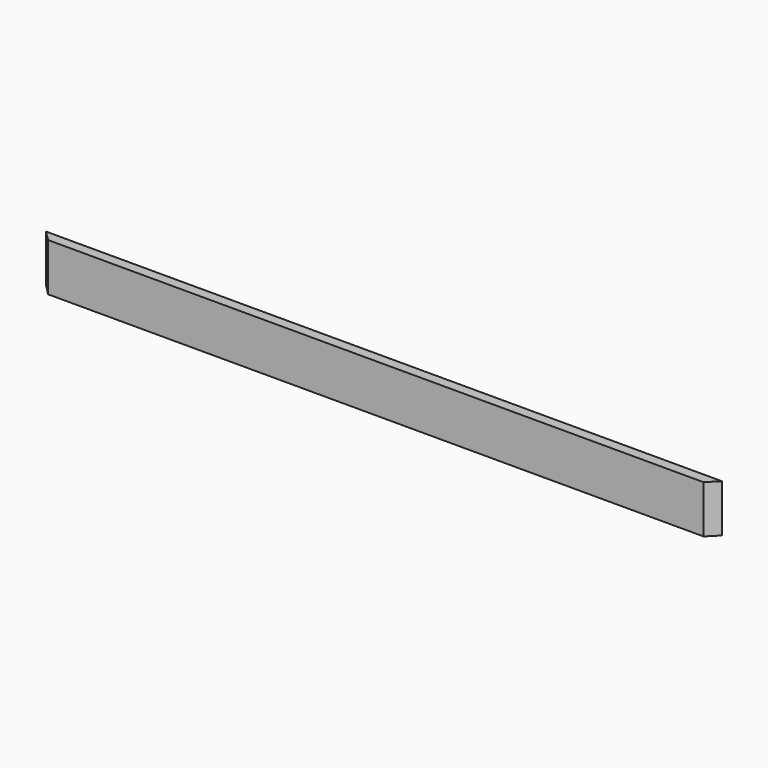
from build123d import *

# Parameters (mm, degrees)
F0_W     = 1257.3
F0_H     = 88.9
F1_DEPTH = 19.05
F3_DEPTH = 127
F5_DEPTH = 127


with BuildPart() as f1:
    # F0 (on Front) → F1 (new body)
    with BuildSketch(Plane.XZ):
        with Locations((-628.65, 44.45)):
            Rectangle(F0_W, F0_H)
    extrude(amount=F1_DEPTH)

    # F2 (on face) → F3 (cut)
    with BuildSketch(Plane(origin=(0, 0, 0), x_dir=(1, 0, 0), z_dir=(0, 0, -1))):
        Polygon((-1257.3, 19.05), (-1257.3, 0), (-1238.25, 19.05), align=None)
    extrude(amount=-F3_DEPTH, mode=Mode.SUBTRACT)

    # F4 (on face) → F5 (cut)
    with BuildSketch(Plane(origin=(0, 0, 0), x_dir=(1, 0, 0), z_dir=(0, 0, -1))):
        Polygon((-19.05, 19.05), (0, 0), (0, 19.05), align=None)
    extrude(amount=-F5_DEPTH, mode=Mode.SUBTRACT)


solid = f1.part
